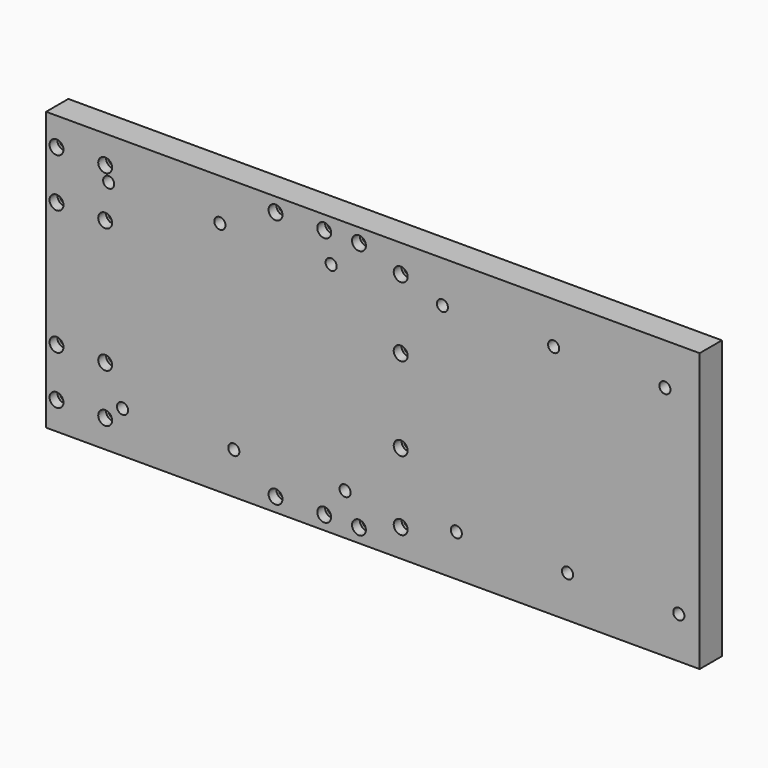
from build123d import *

# Parameters (mm, degrees)
F0_W      = 470
F0_H      = 200
F0_R      = 3
F1_DEPTH  = 20
F2_R      = 5
F3_DEPTH  = 7
F4_R      = 3
F5_DEPTH  = 20
F6_R      = 5
F7_DEPTH  = 7
F8_R      = 3
F9_DEPTH  = 20
F10_R     = 5
F11_DEPTH = 7
F12_R     = 4
F13_DEPTH = 15


with BuildPart() as f1:
    # F0 (on Front) → F1 (new body)
    with BuildSketch(Plane.XZ):
        with Locations((235, 100)):
            Rectangle(F0_W, F0_H)
        with Locations((7.5, 20)):
            Circle(F0_R, mode=Mode.SUBTRACT)
        with Locations((42.5, 20)):
            Circle(F0_R, mode=Mode.SUBTRACT)
        with Locations((7.5, 55)):
            Circle(F0_R, mode=Mode.SUBTRACT)
        with Locations((42.5, 55)):
            Circle(F0_R, mode=Mode.SUBTRACT)
        with Locations((7.5, 145)):
            Circle(F0_R, mode=Mode.SUBTRACT)
        with Locations((42.5, 145)):
            Circle(F0_R, mode=Mode.SUBTRACT)
        with Locations((7.5, 180)):
            Circle(F0_R, mode=Mode.SUBTRACT)
        with Locations((42.5, 180)):
            Circle(F0_R, mode=Mode.SUBTRACT)
    extrude(amount=F1_DEPTH)

    # F2 (on face) → F3 (cut)
    with BuildSketch(Plane.XZ.offset(20)):
        with Locations((7.5, 180)):
            Circle(F2_R)
        with Locations((42.5, 180)):
            Circle(F2_R)
        with Locations((7.5, 145)):
            Circle(F2_R)
        with Locations((42.5, 145)):
            Circle(F2_R)
        with Locations((7.5, 55)):
            Circle(F2_R)
        with Locations((42.5, 55)):
            Circle(F2_R)
        with Locations((7.5, 20)):
            Circle(F2_R)
        with Locations((42.5, 20)):
            Circle(F2_R)
    extrude(amount=-F3_DEPTH, mode=Mode.SUBTRACT)

    # F4 (on face) → F5 (cut)
    with BuildSketch(Plane.XZ.offset(20)):
        with Locations((255, 180)):
            Circle(F4_R)
        with Locations((255, 130)):
            Circle(F4_R)
        with Locations((255, 70)):
            Circle(F4_R)
        with Locations((255, 20)):
            Circle(F4_R)
    extrude(amount=-F5_DEPTH, mode=Mode.SUBTRACT)

    # F6 (on face) → F7 (cut)
    with BuildSketch(Plane.XZ.offset(20)):
        with Locations((255, 20)):
            Circle(F6_R)
        with Locations((255, 70)):
            Circle(F6_R)
        with Locations((255, 130)):
            Circle(F6_R)
        with Locations((255, 180)):
            Circle(F6_R)
    extrude(amount=-F7_DEPTH, mode=Mode.SUBTRACT)

    # F8 (on face) → F9 (cut)
    with BuildSketch(Plane.XZ.offset(20)):
        with Locations((225, 190)):
            Circle(F8_R)
        with Locations((200, 190)):
            Circle(F8_R)
        with Locations((165, 190)):
            Circle(F8_R)
        with Locations((165, 10)):
            Circle(F8_R)
        with Locations((200, 10)):
            Circle(F8_R)
        with Locations((225, 10)):
            Circle(F8_R)
    extrude(amount=-F9_DEPTH, mode=Mode.SUBTRACT)

    # F10 (on face) → F11 (cut)
    with BuildSketch(Plane.XZ.offset(20)):
        with Locations((165, 190)):
            Circle(F10_R)
        with Locations((200, 190)):
            Circle(F10_R)
        with Locations((225, 190)):
            Circle(F10_R)
        with Locations((165, 10)):
            Circle(F10_R)
        with Locations((200, 10)):
            Circle(F10_R)
        with Locations((225, 10)):
            Circle(F10_R)
    extrude(amount=-F11_DEPTH, mode=Mode.SUBTRACT)

    # F12 (on face) → F13 (cut)
    with BuildSketch(Plane.XZ.offset(20)):
        with Locations((45, 170)):
            Circle(F12_R)
        with Locations((125, 170)):
            Circle(F12_R)
        with Locations((205, 170)):
            Circle(F12_R)
        with Locations((285, 170)):
            Circle(F12_R)
        with Locations((365, 170)):
            Circle(F12_R)
        with Locations((445, 170)):
            Circle(F12_R)
        with Locations((55, 30)):
            Circle(F12_R)
        with Locations((135, 30)):
            Circle(F12_R)
        with Locations((215, 30)):
            Circle(F12_R)
        with Locations((295, 30)):
            Circle(F12_R)
        with Locations((375, 30)):
            Circle(F12_R)
        with Locations((455, 30)):
            Circle(F12_R)
    extrude(amount=-F13_DEPTH, mode=Mode.SUBTRACT)


solid = f1.part
